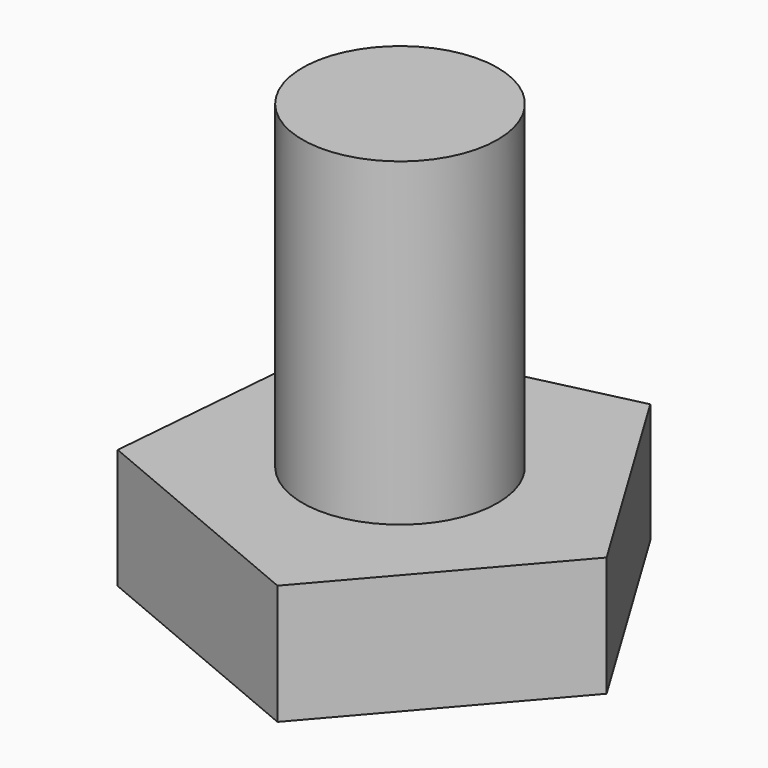
from build123d import *

# Parameters (mm, degrees)
F0_R     = 3.0988
F1_DEPTH = 13.97
F2_DEPTH = 3.81


with BuildPart() as f1:
    # F0 (on Top) → F1 (new body)
    with BuildSketch(Plane.XY):
        Circle(F0_R)
    extrude(amount=F1_DEPTH)

    # F0 (on Top) → F2 (join)
    with BuildSketch(Plane.XY):
        Polygon((7.038981, -0.595537), (2.741554, 6.510437), (-5.344607, 4.619209), (-6.044703, -3.655609), (1.608775, -6.878499), align=None)
        Circle(F0_R, mode=Mode.SUBTRACT)
    extrude(amount=F2_DEPTH)


solid = f1.part
